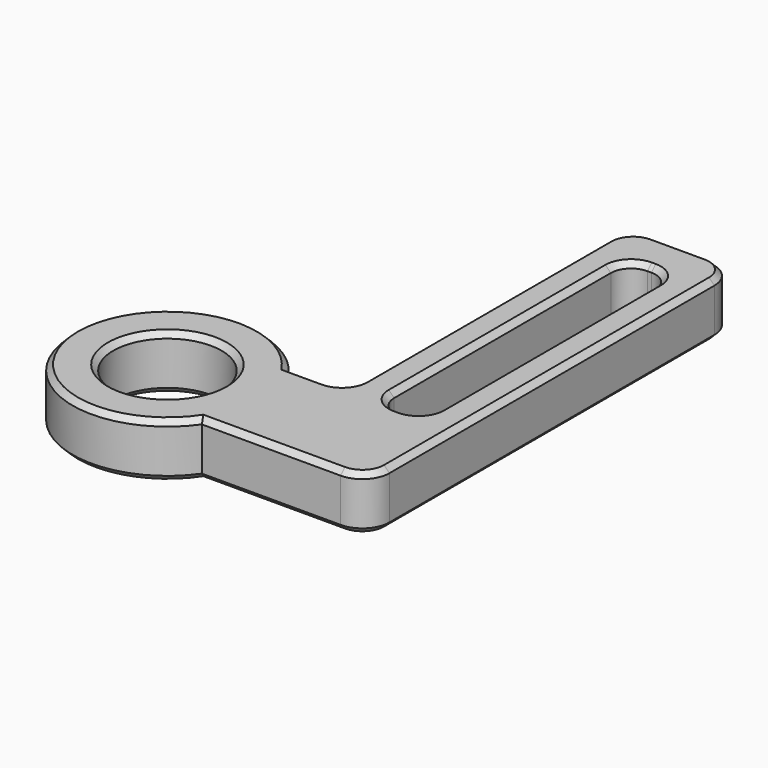
from build123d import *

# Parameters (mm, degrees)
BOX001001004_W     = 3.3
BOX001001004_H     = 23
BOX001001004_DEPTH = 10
FILLET003_R        = 1.5
BOX001001005_W     = 8
BOX001001005_H     = 34
BOX001001005_DEPTH = 4
BOX001001006_W     = 8
BOX001001006_H     = 8
BOX001001006_DEPTH = 4
FILLET_R           = 2
FILLET004_R        = 1.5
CHAMFER005_SIZE    = 0.4
TUBE001_R          = 7
TUBE001_R_2        = 4
TUBE001_DEPTH      = 4
CHAMFER004_SIZE    = 0.4


with BuildPart() as fillet003:
    # Box001001004 → Box001001004 (new body)
    with BuildSketch(Plane(origin=(-1.65, 4, 0), x_dir=(1, 0, 0), z_dir=(0, 0, 1))):
        with Locations((1.65, 11.5)):
            Rectangle(BOX001001004_W, BOX001001004_H)
    extrude(amount=BOX001001004_DEPTH)

    # Fillet003
    fillet003_edges = [fillet003.edges().sort_by_distance(p)[0] for p in [
        (-1.65, 4, 5),
        (-1.65, 27, 5),
        (1.65, 4, 5),
        (1.65, 27, 5),
    ]]
    fillet(fillet003_edges, radius=FILLET003_R)


with BuildPart() as cube007:
    # Box001001005 → Box001001005 (new body)
    with BuildSketch(Plane(origin=(-4, -4, 0), x_dir=(1, 0, 0), z_dir=(0, 0, 1))):
        with Locations((4, 17)):
            Rectangle(BOX001001005_W, BOX001001005_H)
    extrude(amount=BOX001001005_DEPTH)


with BuildPart() as chamfer005:
    # Box001001006 → Box001001006 (new body)
    with BuildSketch(Plane(origin=(-9, -4, 0), x_dir=(1, 0, 0), z_dir=(0, 0, 1))):
        with Locations((4, 4)):
            Rectangle(BOX001001006_W, BOX001001006_H)
    extrude(amount=BOX001001006_DEPTH)

    # Fusion002: union Cube007
    add(cube007.part)

    # Fillet
    fillet_edges = [chamfer005.edges().sort_by_distance(p)[0] for p in [
        (-4, 30, 2),
        (4, -4, 2),
        (4, 30, 2),
    ]]
    fillet(fillet_edges, radius=FILLET_R)

    # Fillet004
    fillet004_edges = [chamfer005.edges().sort_by_distance(p)[0] for p in [
        (-4, 4, 2),
    ]]
    fillet(fillet004_edges, radius=FILLET004_R)

    # Cut002008023012009006003002007005: cut Fillet003
    add(fillet003.part, mode=Mode.SUBTRACT)

    # Chamfer005
    chamfer005_edges = [chamfer005.edges().sort_by_distance(p)[0] for p in [
        (-4, 16.75, 4),
        (-4, 16.75, 0),
        (-4.43934, 4.43934, 4),
        (-4.43934, 4.43934, 0),
        (-3.414214, 29.414214, 0),
        (-3.414214, 29.414214, 4),
        (0, 30, 0),
        (0, 30, 4),
        (3.414214, 29.414214, 0),
        (3.414214, 29.414214, 4),
        (4, 13, 4),
        (4, 13, 0),
        (3.414214, -3.414214, 0),
        (3.414214, -3.414214, 4),
        (-7.25, 4, 0),
        (-7.25, 4, 4),
        (-9, 0, 4),
        (-9, 0, 0),
        (-3.5, -4, 4),
        (-1.21066, 4.43934, 4),
        (-1.65, 15.5, 4),
        (-1.21066, 26.56066, 4),
        (0, 27, 4),
        (1.21066, 26.56066, 4),
        (1.65, 15.5, 4),
        (1.21066, 4.43934, 4),
        (0, 4, 4),
        (-1.21066, 4.43934, 0),
        (0, 4, 0),
        (1.21066, 4.43934, 0),
        (1.65, 15.5, 0),
        (1.21066, 26.56066, 0),
        (0, 27, 0),
        (-1.21066, 26.56066, 0),
        (-1.65, 15.5, 0),
        (-3.5, -4, 0),
    ]]
    chamfer(chamfer005_edges, length=CHAMFER005_SIZE)


with BuildPart() as fusion003001:
    # Tube001 → Tube001 (new body)
    with BuildSketch(Plane.XY):
        Circle(TUBE001_R)
        Circle(TUBE001_R_2, mode=Mode.SUBTRACT)
    extrude(amount=TUBE001_DEPTH)

    # Chamfer004
    chamfer004_edges = [fusion003001.edges().sort_by_distance(p)[0] for p in [
        (-7, 0, 4),
        (-7, 0, 0),
        (-4, 0, 4),
        (-4, 0, 0),
    ]]
    chamfer(chamfer004_edges, length=CHAMFER004_SIZE)


with BuildPart() as fusion003001_1:
    # Chamfer004 placement: moved
    add(fusion003001.part.moved(Location((-14, 0, 0))))

    # Fusion003: union Chamfer005
    add(chamfer005.part)


solid = fusion003001_1.part
